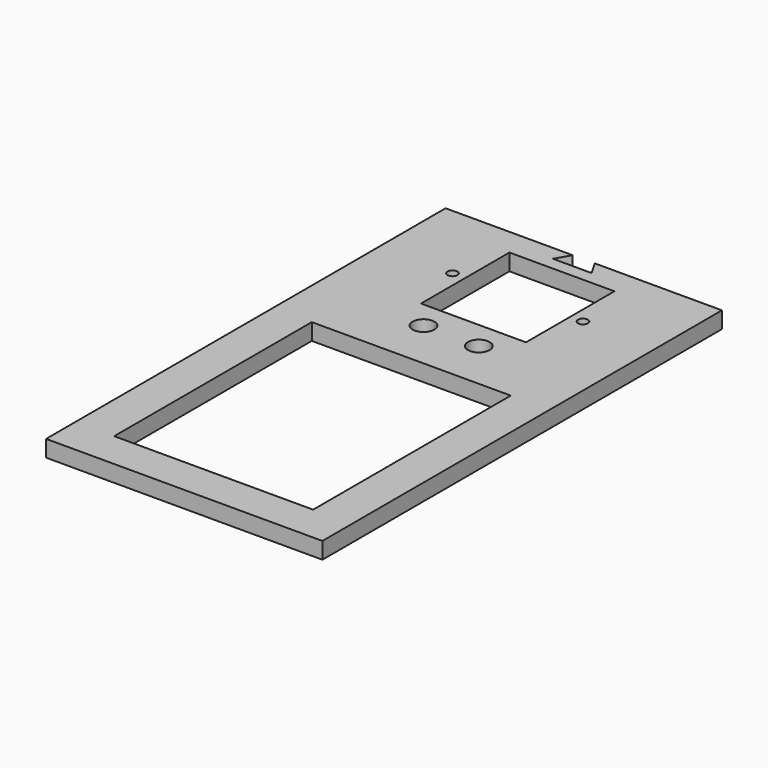
from build123d import *

# Parameters (mm, degrees)
F0_W     = 45.72
F0_H     = 56.769
F0_R     = 2.5
F0_R_2   = 1.143
F0_W_2   = 24.13
F0_H_2   = 25.4
F1_DEPTH = 3.81


with BuildPart() as f1:
    # F0 (on Top) → F1 (new body)
    with BuildSketch(Plane.XY):
        Polygon((5.469258, 41.86581), (-17.390742, 41.86581), (-23.740742, 41.86581), (-23.740742, -47.508215), (-23.740742, -72.908215), (39.759258, -72.908215), (39.759258, 41.86581), (33.409258, 41.86581), (10.549258, 41.86581), (12.454258, 38.566253), (3.564258, 38.566253), align=None)
        with Locations((8.009258, -36.071789)):
            Rectangle(F0_W, F0_H, mode=Mode.SUBTRACT)
        with Locations((1.659258, 3.76581)):
            Circle(F0_R, mode=Mode.SUBTRACT)
        with Locations((-6.976742, 22.889307)):
            Circle(F0_R_2, mode=Mode.SUBTRACT)
        with Locations((8.009258, 22.889307)):
            Rectangle(F0_W_2, F0_H_2, mode=Mode.SUBTRACT)
        with Locations((14.359258, 3.76581)):
            Circle(F0_R, mode=Mode.SUBTRACT)
        with Locations((22.995258, 22.889307)):
            Circle(F0_R_2, mode=Mode.SUBTRACT)
    extrude(amount=F1_DEPTH)


solid = f1.part
